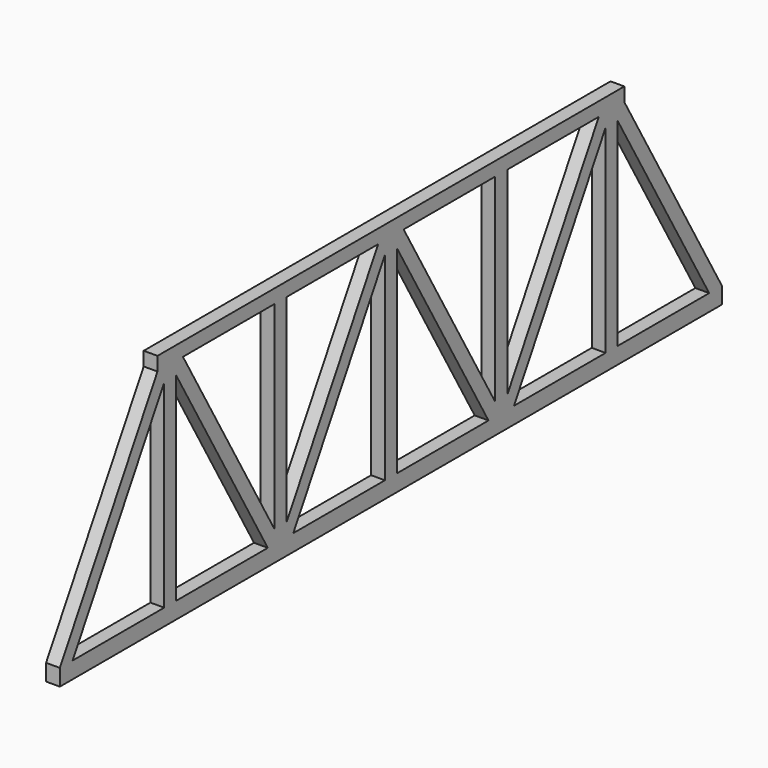
from build123d import *

# Parameters (mm, degrees)
F1_DEPTH = 5


with BuildPart() as f1:
    # F0 (on Right) → F1 (new body)
    with BuildSketch(Plane.YZ):
        Polygon((-105.656038, 43.876361), (-149.882535, -32.72618), (-144.109032, -32.72618), (-102.609032, 39.153929), (-99.882535, 43.876361), align=None)
        Polygon((-102.609032, 39.153929), (-102.609032, -32.72618), (-97.156038, -32.72618), (-97.156038, 39.153929), (-99.882535, 43.876361), align=None)
        Polygon((-149.882535, -38.72618), (150.117465, -38.72618), (150.117465, -32.72618), (144.343962, -32.72618), (102.843962, -32.72618), (97.390968, -32.72618), (55.890968, -32.72618), (50.117465, -32.72618), (44.343962, -32.72618), (2.843962, -32.72618), (-2.609032, -32.72618), (-44.109032, -32.72618), (-49.882535, -32.72618), (-55.656038, -32.72618), (-97.156038, -32.72618), (-102.609032, -32.72618), (-144.109032, -32.72618), (-149.882535, -32.72618), align=None)
        Polygon((-94.109032, 43.876361), (-99.882535, 43.876361), (-97.156038, 39.153929), (-55.656038, -32.72618), (-49.882535, -32.72618), (-52.609032, -28.003748), align=None)
        Polygon((-52.609032, 43.876361), (-52.609032, -28.003748), (-49.882535, -32.72618), (-47.156038, -28.003748), (-47.156038, 43.876361), align=None)
        Polygon((-47.156038, -28.003748), (-49.882535, -32.72618), (-44.109032, -32.72618), (-2.609032, 39.153929), (0.117465, 43.876361), (-5.656038, 43.876361), align=None)
        Polygon((-2.609032, -32.72618), (2.843962, -32.72618), (2.843962, 39.153929), (0.117465, 43.876361), (-2.609032, 39.153929), align=None)
        Polygon((44.343962, -32.72618), (50.117465, -32.72618), (47.390968, -28.003748), (5.890968, 43.876361), (0.117465, 43.876361), (2.843962, 39.153929), align=None)
        Polygon((50.117465, -32.72618), (52.843962, -28.003748), (52.843962, 43.876361), (47.390968, 43.876361), (47.390968, -28.003748), align=None)
        Polygon((97.390968, 39.153929), (100.117465, 43.876361), (94.343962, 43.876361), (52.843962, -28.003748), (50.117465, -32.72618), (55.890968, -32.72618), align=None)
        Polygon((97.390968, -32.72618), (102.843962, -32.72618), (102.843962, 39.153929), (100.117465, 43.876361), (97.390968, 39.153929), align=None)
        Polygon((144.343962, -32.72618), (150.117465, -32.72618), (105.890968, 43.876361), (100.117465, 43.876361), (102.843962, 39.153929), align=None)
        Polygon((100.117465, 43.876361), (105.890968, 43.876361), (105.890968, 48.876361), (-105.656038, 48.876361), (-105.656038, 43.876361), (-99.882535, 43.876361), (-94.109032, 43.876361), (-52.609032, 43.876361), (-47.156038, 43.876361), (-5.656038, 43.876361), (0.117465, 43.876361), (5.890968, 43.876361), (47.390968, 43.876361), (52.843962, 43.876361), (94.343962, 43.876361), align=None)
    extrude(amount=F1_DEPTH)


solid = f1.part
